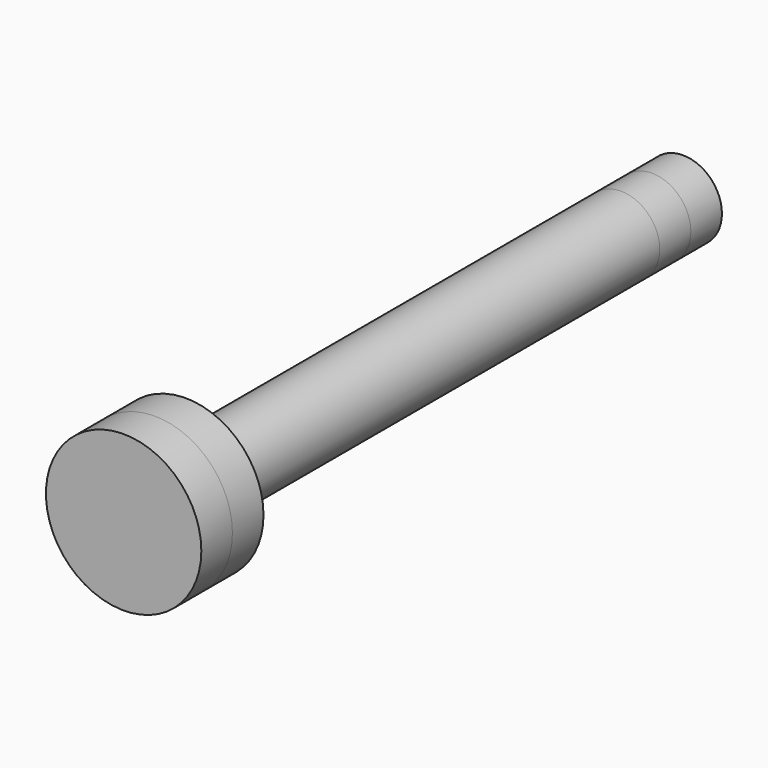
from build123d import *

# Parameters (mm, degrees)
F0_R       = 6.35
F1_DEPTH   = 101.6
F1_FACE1_R = 6.35
F2_R       = 12.7
F2_R_2     = 6.35
F1_FACE_R  = 6.35
F3_DEPTH   = 6.35


with BuildPart() as f1:
    # F0 (on Front) → F1 (new body)
    with BuildSketch(Plane.XZ):
        with Locations((0, 6.35)):
            Circle(F0_R)
    extrude(amount=F1_DEPTH)

    # F1_face1 (on face) + F2 (on face) + F1_face (on face) → F3 (join, symmetric)
    with BuildSketch(Plane(origin=(0, 0, 6.35), x_dir=(1, 0, 0), z_dir=(0, 1, 0))):
        Circle(F1_FACE1_R)
    with BuildSketch(Plane.XZ.offset(101.6)):
        with Locations((0, 6.35)):
            Circle(F2_R)
        with Locations((0, 6.35)):
            Circle(F2_R_2, mode=Mode.SUBTRACT)
        with Locations((0, 6.35)):
            Circle(F2_R_2)
    with BuildSketch(Plane(origin=(0, -101.6, 6.35), x_dir=(1, 0, 0), z_dir=(0, -1, 0))):
        Circle(F1_FACE_R)
    extrude(amount=F3_DEPTH, both=True, dir=(0, 1, 0))


with BuildPart() as f1_1:
    # F4: moved
    add(f1.part.moved(Location((0, 47.752, 0))))


solid = f1_1.part
